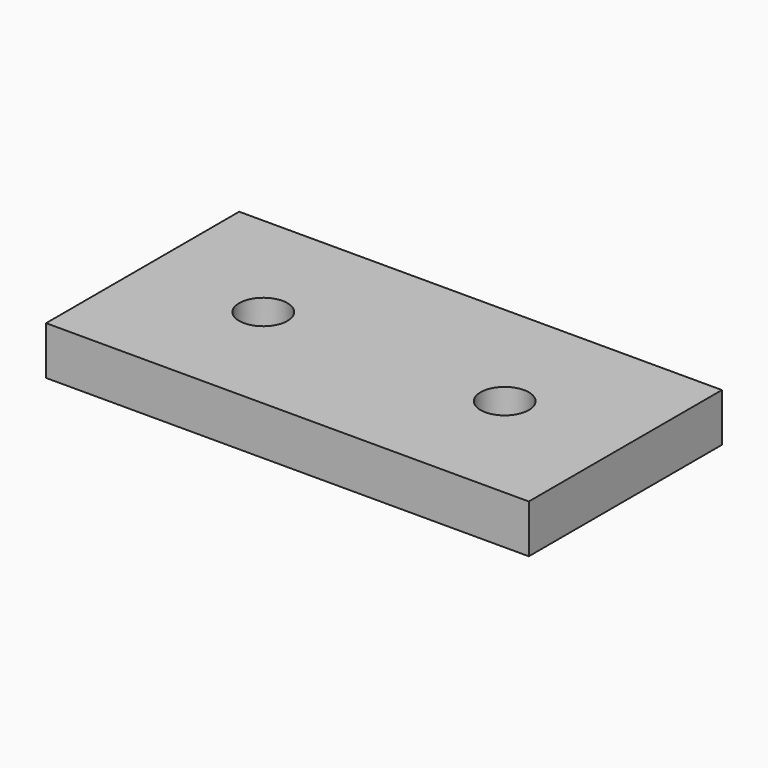
from build123d import *

# Parameters (mm, degrees)
SKETCH_W  = 100
SKETCH_H  = 50
SKETCH_R  = 5
PAD_DEPTH = 10


with BuildPart() as part:
    # Sketch → Pad (new body)
    with BuildSketch(Plane.XY):
        with Locations((-0.160065, 5.910219)):
            Rectangle(SKETCH_W, SKETCH_H)
        with Locations((-25.160065, 5.910219)):
            Circle(SKETCH_R, mode=Mode.SUBTRACT)
        with Locations((24.839935, 5.910219)):
            Circle(SKETCH_R, mode=Mode.SUBTRACT)
    extrude(amount=PAD_DEPTH)


solid = part.part
